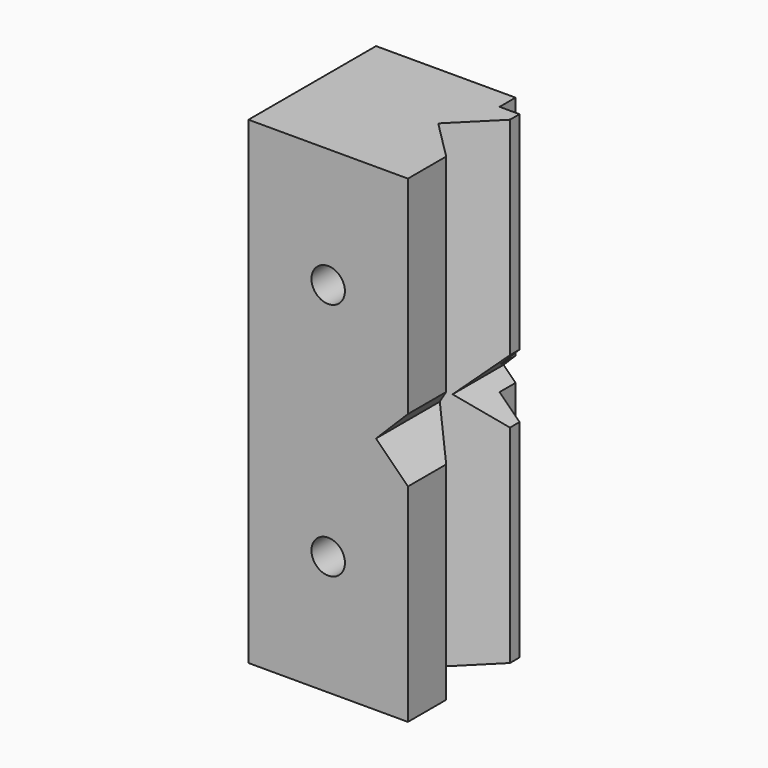
from build123d import *

# Parameters (mm, degrees)
F1_DEPTH = 60
F3_DEPTH = 25
F5_D     = 4.2
F5_DEPTH = 8
F5_TIP   = 1.2618073


with BuildPart() as f1:
    # F0 (on Top) → F1 (new body)
    with BuildSketch(Plane.XY):
        Polygon((0, 20), (0, 0), (20, 0), (20, 6), (15, 11), (20, 16), (20, 17.5), (17.5, 17.5), (17.5, 20), align=None)
    extrude(amount=-F1_DEPTH)

    # F2 (on face) → F3 (cut)
    with BuildSketch(Plane(origin=(0, 20, 0), x_dir=(-1, 0, 0), z_dir=(0, 1, 0))):
        Polygon((-17.5, -28.5), (-21.123, -24.877), (-21.123, -35.123), (-17.5, -31.5), align=None)
        Polygon((-16, -30), (-17.5, -28.5), (-17.5, -31.5), align=None)
    extrude(amount=-F3_DEPTH, mode=Mode.SUBTRACT)

    # F5
    with Locations(Plane.XZ):
        with Locations((10, -15), (10, -45)):
            Hole(F5_D / 2, depth=F5_DEPTH)
            with Locations((0, 0, -(F5_DEPTH + F5_TIP / 2))):  # 118° drill point
                Cone(0, F5_D / 2, F5_TIP, mode=Mode.SUBTRACT)


solid = f1.part
